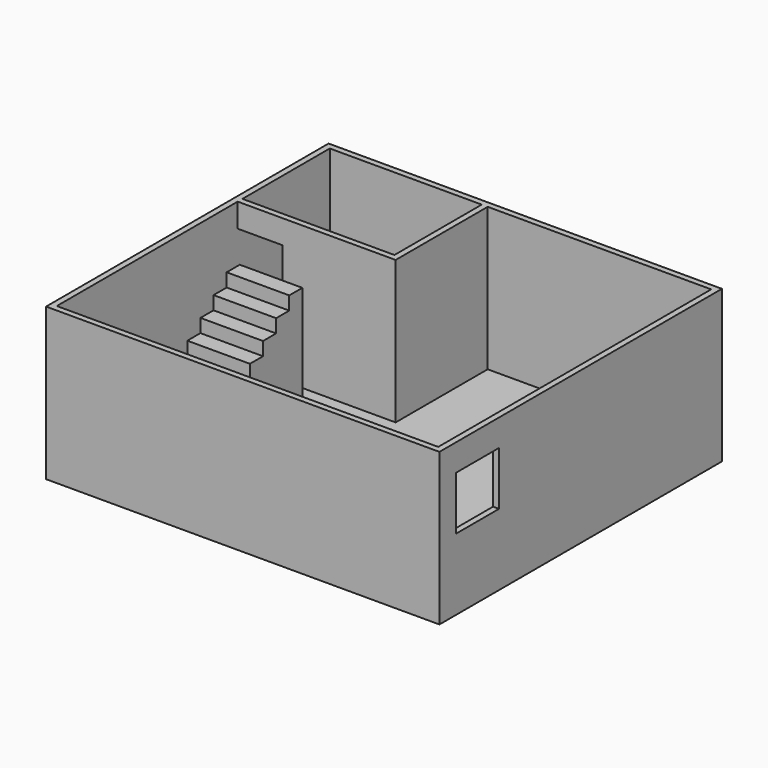
from build123d import *

# Parameters (mm, degrees)
F0_W      = 6705.6
F0_H      = 6019.8
F1_DEPTH  = 152.4
F2_W      = 6705.6
F2_H      = 6019.8
F2_W_2    = 6502.4
F2_H_2    = 5816.6
F3_DEPTH  = 2438.4
F5_DEPTH  = 2438.4
F6_W      = 914.4
F6_H      = 914.4
F7_DEPTH  = 127
F8_W      = 762
F8_H      = 406.4
F9_DEPTH  = 101.6
F10_W     = 2133.6
F10_H     = 1168.4
F11_DEPTH = 1219.2
F13_DEPTH = 1066.8
F15_DEPTH = 1066.8


with BuildPart() as f1:
    # F0 (on Top) → F1 (new body)
    with BuildSketch(Plane.XY):
        with Locations((3352.8, -3009.9)):
            Rectangle(F0_W, F0_H)
    extrude(amount=-F1_DEPTH)

    # F2 (on face) → F3 (join)
    with BuildSketch(Plane.XY):
        with Locations((3352.8, -3009.9)):
            Rectangle(F2_W, F2_H)
        with Locations((3352.8, -3009.9)):
            Rectangle(F2_W_2, F2_H_2, mode=Mode.SUBTRACT)
    extrude(amount=F3_DEPTH)

    # F4 (on face) → F5 (join)
    with BuildSketch(Plane.XY):
        Polygon((2692.4, -1962.15), (863.6, -1962.15), (863.6, -2063.75), (2794, -2063.75), (2794, -101.6), (2692.4, -101.6), align=None)
    extrude(amount=F5_DEPTH)

    # F6 (on face) → F7 (cut)
    with BuildSketch(Plane.YZ.offset(6705.6)):
        with Locations((-5207, 1524)):
            Rectangle(F6_W, F6_H)
    extrude(amount=-F7_DEPTH, mode=Mode.SUBTRACT)

    # F8 (on face) → F9 (join, through all)
    with BuildSketch(Plane.XZ.offset(2063.75)):
        with Locations((482.6, 2235.2)):
            Rectangle(F8_W, F8_H)
    extrude(amount=-F9_DEPTH)

    # F10 (on face) → F11 (join)
    with BuildSketch(Plane.XY):
        with Locations((1168.4, -5334)):
            Rectangle(F10_W, F10_H)
    extrude(amount=F11_DEPTH)

    # F12 (on face) → F13 (join)
    with BuildSketch(Plane.YZ.offset(101.6)):
        Polygon((-4749.8, 0), (-3632.2, 0), (-3632.2, 228.6), (-3911.6, 228.6), (-3911.6, 457.2), (-4191, 457.2), (-4191, 685.8), (-4470.4, 685.8), (-4470.4, 914.4), (-4749.8, 914.4), align=None)
    extrude(amount=F13_DEPTH)

    # F14 (on face) → F15 (join)
    with BuildSketch(Plane.YZ.offset(2235.2)):
        Polygon((-4749.8, 1447.8), (-4749.8, 1219.2), (-4749.8, 0), (-3352.8, 0), (-3352.8, 2362.2), (-3632.2, 2362.2), (-3632.2, 2133.6), (-3911.6, 2133.6), (-3911.6, 1905), (-4191, 1905), (-4191, 1676.4), (-4470.4, 1676.4), (-4470.4, 1447.8), align=None)
    extrude(amount=-F15_DEPTH)


solid = f1.part
